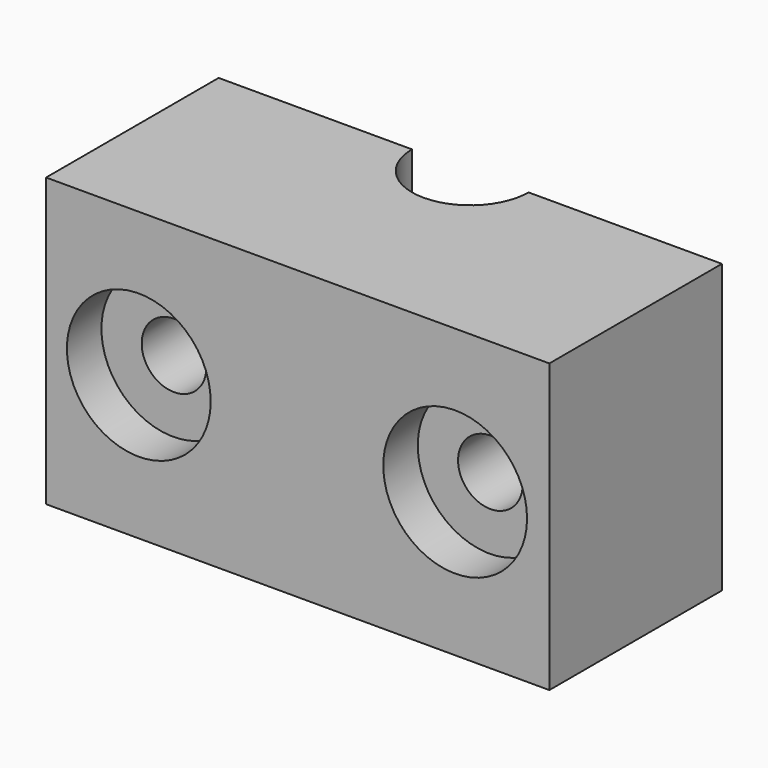
from build123d import *

# Parameters (mm, degrees)
PAD_DEPTH       = 20
SKETCH001_R     = 2.25
POCKET_DEPTH    = 15.001
SKETCH002_R     = 5
POCKET001_DEPTH = 3


with BuildPart() as part:
    # Sketch → Pad (new body)
    with BuildSketch(Plane.XY):
        with BuildLine():
            ThreePointArc((-4.05, 0), (0, -4.05), (4.05, 0))
            Line((4.05, 0), (17.5, 0))
            Line((17.5, 0), (17.5, -15))
            Line((17.5, -15), (-17.5, -15))
            Line((-17.5, -15), (-17.5, 0))
            Line((-17.5, 0), (-4.05, 0))
        make_face()
    extrude(amount=PAD_DEPTH)

    # Sketch001 → Pocket (cut, through all)
    with BuildSketch(Plane.XZ.offset(15)):
        with Locations((-11, 10)):
            Circle(SKETCH001_R)
        with Locations((11, 10)):
            Circle(SKETCH001_R)
    extrude(amount=-POCKET_DEPTH, mode=Mode.SUBTRACT)

    # Sketch002 → Pocket001 (cut)
    with BuildSketch(Plane.XZ.offset(15)):
        with Locations((-11.052364, 10)):
            Circle(SKETCH002_R)
        with Locations((10.947636, 10)):
            Circle(SKETCH002_R)
    extrude(amount=-POCKET001_DEPTH, mode=Mode.SUBTRACT)


solid = part.part
